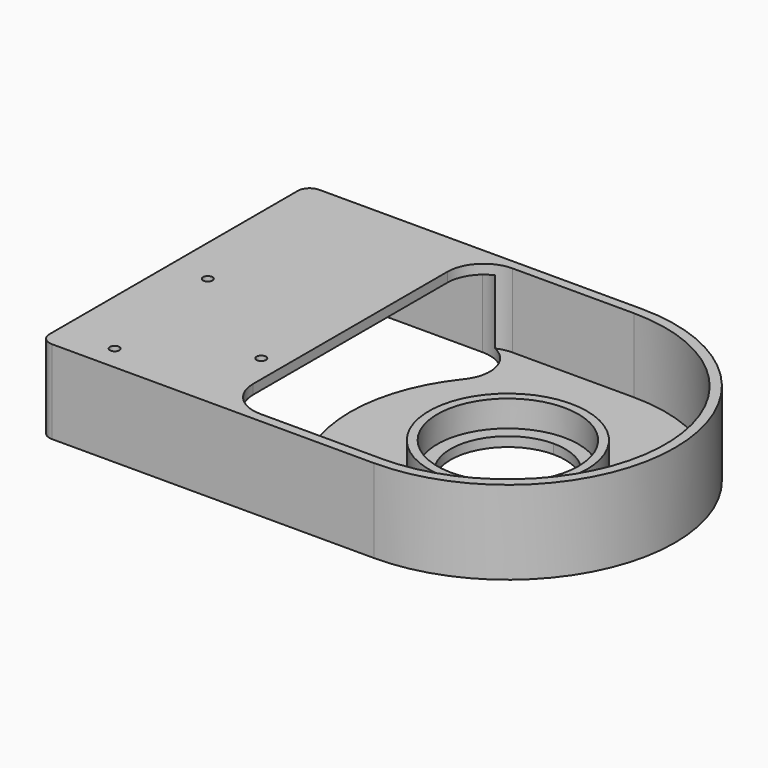
from build123d import *

# Parameters (mm, degrees)
F1_DEPTH = 22.225
F3_DEPTH = 19.685
F5_DEPTH = 19.685
F6_R     = 21
F6_R_2   = 18.75
F7_DEPTH = 7
F8_R     = 1.2446
F9_DEPTH = 2.541


with BuildPart() as f1:
    # F0 (on Top) → F1 (new body)
    with BuildSketch(Plane.XY):
        with BuildLine():
            ThreePointArc((0, 3.175), (0.929936, 0.929936), (3.175, 0))
            Line((3.175, 0), (88.9, 0))
            Line((88.9, 0), (88.9, 29.21))
            ThreePointArc((88.9, 29.21), (73.66, 44.45), (88.9, 59.69))
            Line((88.9, 59.69), (88.9, 88.9))
            Line((88.9, 88.9), (3.175, 88.9))
            ThreePointArc((3.175, 88.9), (0.929936, 87.970064), (0, 85.725))
            Line((0, 85.725), (0, 3.175))
        make_face()
        with BuildLine():
            Line((88.9, 29.21), (88.9, 0))
            ThreePointArc((88.9, 0), (133.35, 44.45), (88.9, 88.9))
            Line((88.9, 88.9), (88.9, 59.69))
            ThreePointArc((88.9, 59.69), (99.676307, 55.226307), (104.14, 44.45))
            ThreePointArc((104.14, 44.45), (99.676307, 33.673693), (88.9, 29.21))
        make_face()
    extrude(amount=F1_DEPTH)

    # F2 (on face) → F3 (cut)
    with BuildSketch(Plane.XY.offset(22.225)):
        with BuildLine():
            Line((88.9, 86.36), (88.9, 2.54))
            ThreePointArc((88.9, 2.54), (130.81, 44.45), (88.9, 86.36))
        make_face()
        with BuildLine():
            Line((56.642, 2.54), (88.9, 2.54))
            Line((88.9, 2.54), (88.9, 86.36))
            Line((88.9, 86.36), (56.642, 86.36))
            ThreePointArc((56.642, 86.36), (49.817005, 83.532995), (46.99, 76.708))
            Line((46.99, 76.708), (46.99, 12.192))
            ThreePointArc((46.99, 12.192), (49.817005, 5.367005), (56.642, 2.54))
        make_face()
    extrude(amount=-F3_DEPTH, mode=Mode.SUBTRACT)

    # F4 (on face) → F5 (cut)
    with BuildSketch(Plane(origin=(0, 0, 0), x_dir=(1, 0, 0), z_dir=(0, 0, -1))):
        with BuildLine():
            ThreePointArc((56.204695, -70.669557), (46.99, -44.45), (56.204695, -18.230443))
            ThreePointArc((56.204695, -18.230443), (57.376711, -8.015994), (48.674868, -2.54))
            Line((48.674868, -2.54), (2.54, -2.54))
            Line((2.54, -2.54), (2.54, -86.36))
            Line((2.54, -86.36), (48.674868, -86.36))
            ThreePointArc((48.674868, -86.36), (57.376711, -80.884006), (56.204695, -70.669557))
        make_face()
    extrude(amount=-F5_DEPTH, mode=Mode.SUBTRACT)

    # F6 (on face) → F7 (join)
    with BuildSketch(Plane.XY.offset(2.54)):
        with Locations((88.9, 44.45)):
            Circle(F6_R)
        with Locations((88.9, 44.45)):
            Circle(F6_R_2, mode=Mode.SUBTRACT)
    extrude(amount=F7_DEPTH)

    # F8 (on face) → F9 (cut, through all)
    with BuildSketch(Plane(origin=(0, 0, 19.685), x_dir=(1, 0, 0), z_dir=(0, 0, -1))):
        with Locations((10.1092, -43.18)):
            Circle(F8_R)
        with Locations((14.6304, -6.5786)):
            Circle(F8_R)
        with Locations((41.1226, -22.1996)):
            Circle(F8_R)
    extrude(amount=-F9_DEPTH, mode=Mode.SUBTRACT)


solid = f1.part
